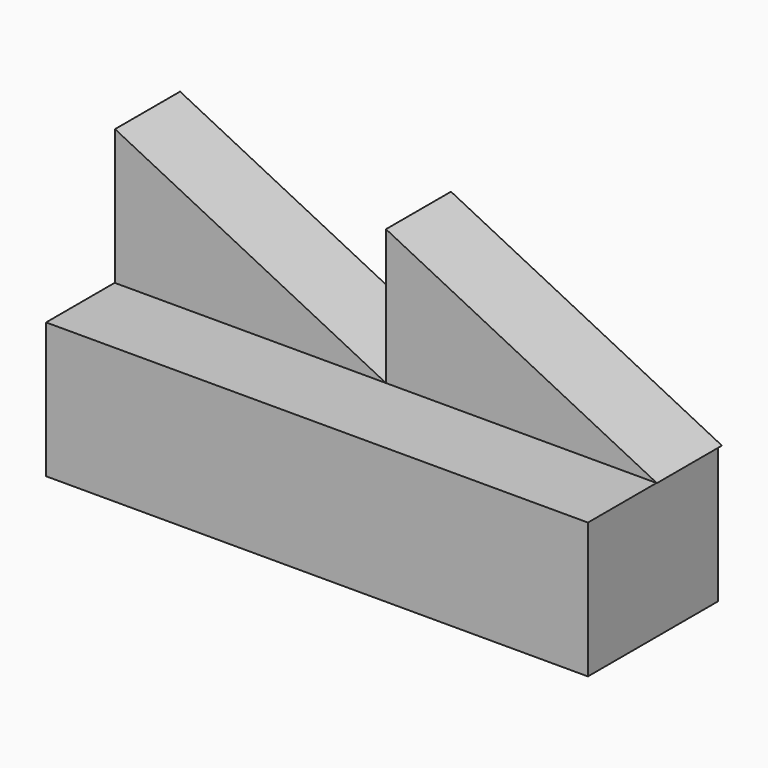
from build123d import *

# Parameters (mm, degrees)
F0_W     = 127
F0_H     = 31.75
F1_DEPTH = 38.1
F3_DEPTH = 19.05


with BuildPart() as f1:
    # F0 (on Front) → F1 (new body)
    with BuildSketch(Plane.XZ):
        with Locations((-4.372131, -26.53467)):
            Rectangle(F0_W, F0_H)
    extrude(amount=F1_DEPTH)


with BuildPart() as f3:
    # F2 (on Front) → F3 (new body)
    with BuildSketch(Plane.XZ):
        Polygon((-3.447766, 21.782044), (-3.447766, -9.967956), (60.052234, -9.967956), align=None)
        Polygon((-66.947766, 21.782044), (-66.947766, -9.967956), (-3.447766, -9.967956), align=None)
    extrude(amount=F3_DEPTH)


solid = Compound([f1.part, f3.part])
